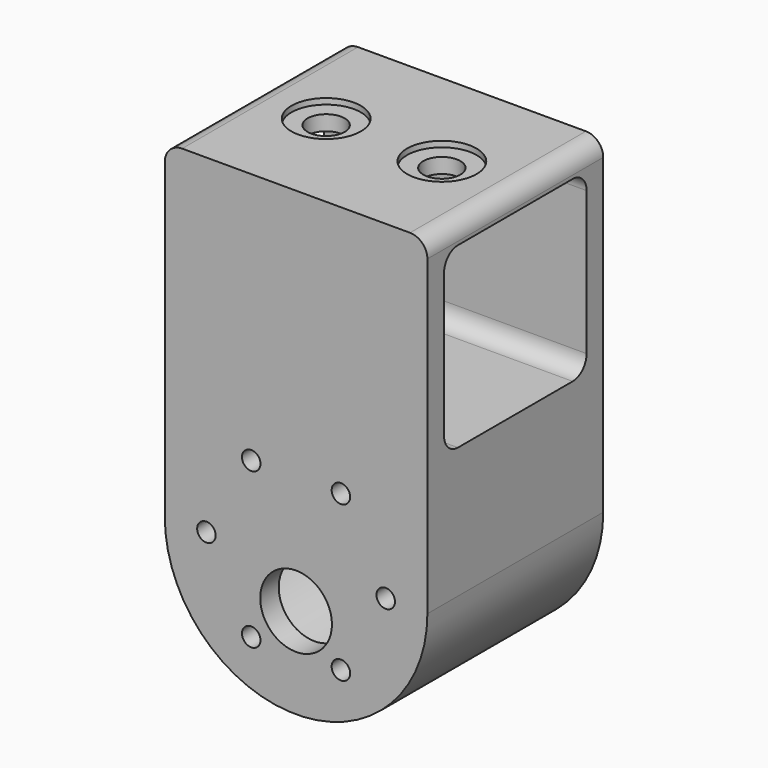
from build123d import *

# Parameters (mm, degrees)
PAD_START       = 56
PAD_DEPTH       = 38
SKETCH001_R     = 18.7
POCKET_DEPTH    = 34
SKETCH002_R     = 6.2
SKETCH002_R_2   = 1.6
POCKET001_DEPTH = 4
POCKET002_DEPTH = 45.401
SKETCH004_R     = 3.2
POCKET003_DEPTH = 3.6
SKETCH005_R     = 6
POCKET004_DEPTH = 1


with BuildPart() as part:
    # Sketch → Pad (new body)
    with BuildSketch(Plane.XZ.offset(PAD_START)):
        with BuildLine():
            Line((37.3, 1), (37.3, -53))
            ThreePointArc((37.3, -53), (60, -75.7), (82.7, -53))
            Line((82.7, -53), (82.7, 1))
            ThreePointArc((82.7, 1), (81.82132, 3.12132), (79.7, 4))
            Line((79.7, 4), (40.3, 4))
            ThreePointArc((40.3, 4), (38.17868, 3.12132), (37.3, 1))
        make_face()
    extrude(amount=PAD_DEPTH)

    # Sketch001 (on Face7 of Pad) → Pocket (cut)
    with BuildSketch(Plane(origin=(0, -56, 0), x_dir=(1, 0, 0), z_dir=(0, 1, 0))):
        with Locations((60, 53)):
            Circle(SKETCH001_R)
    extrude(amount=-POCKET_DEPTH, mode=Mode.SUBTRACT)

    # Sketch002 (on Face5 of Pocket) → Pocket001 (cut)
    with BuildSketch(Plane.XZ.offset(94)):
        with Locations((60, -60)):
            Circle(SKETCH002_R)
        with Locations((52.25, -39.576606)):
            Circle(SKETCH002_R_2)
        with Locations((67.75, -39.576606)):
            Circle(SKETCH002_R_2)
        with Locations((75.5, -53)):
            Circle(SKETCH002_R_2)
        with Locations((67.75, -66.423394)):
            Circle(SKETCH002_R_2)
        with Locations((52.25, -66.423394)):
            Circle(SKETCH002_R_2)
        with Locations((44.5, -53)):
            Circle(SKETCH002_R_2)
    extrude(amount=-POCKET001_DEPTH, mode=Mode.SUBTRACT)

    # Sketch003 (on Face7 of Pocket001) → Pocket002 (cut, through all)
    with BuildSketch(Plane(origin=(82.7, 0, 0), x_dir=(0, 0, 1), z_dir=(1, 0, 0))):
        with BuildLine():
            Line((-30.4, 87.4), (-30.4, 62.6))
            ThreePointArc((-30.4, 62.6), (-29.52132, 60.47868), (-27.4, 59.6))
            Line((-27.4, 59.6), (-2.6, 59.6))
            ThreePointArc((-2.6, 59.6), (-0.47868, 60.47868), (0.4, 62.6))
            Line((0.4, 62.6), (0.4, 87.4))
            ThreePointArc((0.4, 87.4), (-0.47868, 89.52132), (-2.6, 90.4))
            Line((-2.6, 90.4), (-27.4, 90.4))
            ThreePointArc((-27.4, 90.4), (-29.52132, 89.52132), (-30.4, 87.4))
        make_face()
    extrude(amount=-POCKET002_DEPTH, mode=Mode.SUBTRACT)

    # Sketch004 (on Face14 of Pocket002) → Pocket003 (cut)
    with BuildSketch(Plane(origin=(0, 0, 4), x_dir=(-1, 0, 0), z_dir=(0, 0, 1))):
        with Locations((-70, 75)):
            Circle(SKETCH004_R)
        with Locations((-50, 75)):
            Circle(SKETCH004_R)
    extrude(amount=-POCKET003_DEPTH, mode=Mode.SUBTRACT)

    # Sketch005 (on Face14 of Pocket003) → Pocket004 (cut)
    with BuildSketch(Plane(origin=(0, 0, 4), x_dir=(-1, 0, 0), z_dir=(0, 0, 1))):
        with Locations((-70, 75)):
            Circle(SKETCH005_R)
        with Locations((-50, 75)):
            Circle(SKETCH005_R)
    extrude(amount=-POCKET004_DEPTH, mode=Mode.SUBTRACT)


solid = part.part
